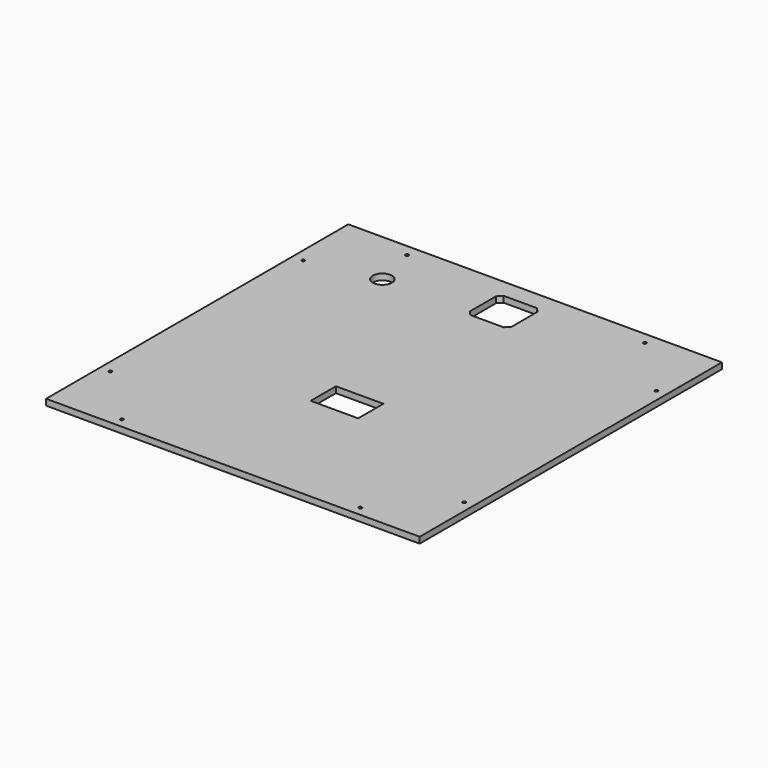
from build123d import *

# Parameters (mm, degrees)
SKETCH002_W     = 388.595154
SKETCH002_H     = 392.901
SKETCH002_R     = 1.62754
SKETCH002_R_2   = 1.622912
SKETCH002_R_3   = 1.629974
SKETCH002_R_4   = 1.642619
SKETCH002_R_5   = 1.621975
SKETCH002_R_6   = 1.620988
SKETCH002_R_7   = 1.638708
SKETCH002_R_8   = 1.617701
PAD_DEPTH       = 6.35
POCKET001_DEPTH = 57
SKETCH007_W     = 49.299805
SKETCH007_H     = 32.819429
POCKET_DEPTH    = 69
SKETCH009_R     = 10
POCKET003_DEPTH = 26


with BuildPart() as part:
    # Sketch002 → Pad (new body)
    with BuildSketch(Plane.XY.offset(-307)):
        with Locations((505.886505, 39.199462)):
            Rectangle(SKETCH002_W, SKETCH002_H)
        with Locations((322.359876, -87.178603)):
            Circle(SKETCH002_R, mode=Mode.SUBTRACT)
        with Locations((382.343016, -147.173684)):
            Circle(SKETCH002_R_2, mode=Mode.SUBTRACT)
        with Locations((630.524069, -147.355562)):
            Circle(SKETCH002_R_3, mode=Mode.SUBTRACT)
        with Locations((690.492891, -87.34992)):
            Circle(SKETCH002_R_4, mode=Mode.SUBTRACT)
        with Locations((689.91036, 163.255499)):
            Circle(SKETCH002_R_5, mode=Mode.SUBTRACT)
        with Locations((629.919382, 223.232625)):
            Circle(SKETCH002_R_6, mode=Mode.SUBTRACT)
        with Locations((382.677955, 223.228676)):
            Circle(SKETCH002_R_7, mode=Mode.SUBTRACT)
        with Locations((322.692155, 163.204715)):
            Circle(SKETCH002_R_8, mode=Mode.SUBTRACT)
    extrude(amount=PAD_DEPTH)

    # Sketch004 → Pocket001 (cut)
    with BuildSketch(Plane(origin=(0, 0, -307), x_dir=(1, 0, 0), z_dir=(0, 0, -1))):
        Polygon((484.382596, -177.360658), (484.382596, -211.810965), (488.793788, -216.222157), (523.215023, -216.222157), (527.750201, -211.68698), (527.750201, -177.514144), (523.239443, -173.003385), (488.739868, -173.003385), align=None)
    extrude(amount=-POCKET001_DEPTH, mode=Mode.SUBTRACT)

    # Sketch007 → Pocket (cut)
    with BuildSketch(Plane(origin=(0, 0, -307), x_dir=(1, 0, 0), z_dir=(0, 0, -1))):
        with Locations((506.359008, 9.442521)):
            Rectangle(SKETCH007_W, SKETCH007_H)
    extrude(amount=-POCKET_DEPTH, mode=Mode.SUBTRACT)

    # Sketch009 → Pocket003 (cut)
    with BuildSketch(Plane(origin=(0, 0, -307), x_dir=(1, 0, 0), z_dir=(0, 0, -1))):
        with Locations((393.495178, -177.602295)):
            Circle(SKETCH009_R)
    extrude(amount=-POCKET003_DEPTH, mode=Mode.SUBTRACT)


with BuildPart() as part_1:
    # Body placement: moved
    add(part.part.moved(Location((0, 0, 51))))


solid = part_1.part
